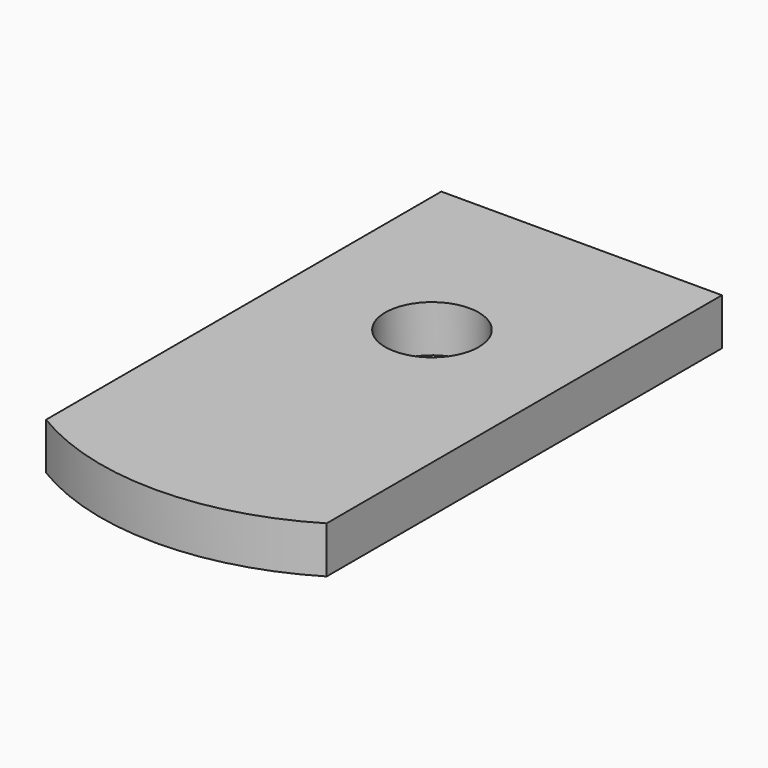
from build123d import *

# Parameters (mm, degrees)
F1_DEPTH = 5
F2_R     = 5
F3_DEPTH = 5


with BuildPart() as f1:
    # F0 (on Top) → F1 (new body)
    with BuildSketch(Plane.XY):
        with BuildLine():
            Line((15, -24.319347), (15, 28.5))
            Line((15, 28.5), (-15, 28.5))
            Line((-15, 28.5), (-15, -24.319347))
            ThreePointArc((-15, -24.319347), (0, -28.5), (15, -24.319347))
        make_face()
    extrude(amount=F1_DEPTH)

    # F2 (on face) → F3 (cut)
    with BuildSketch(Plane.XY.offset(5)):
        with Locations((0, 8.5)):
            Circle(F2_R)
    extrude(amount=-F3_DEPTH, mode=Mode.SUBTRACT)


solid = f1.part
